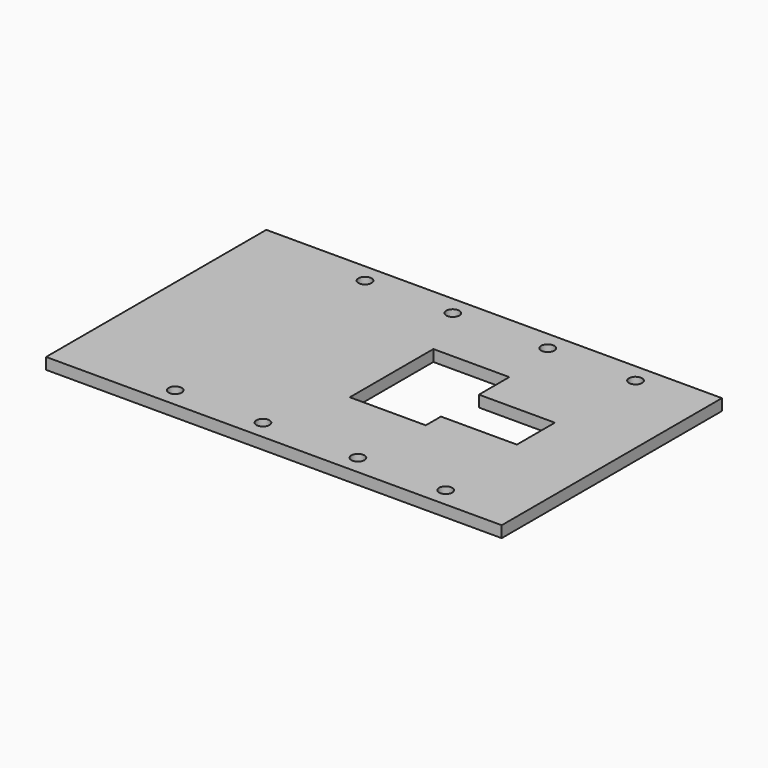
from build123d import *

# Parameters (mm, degrees)
F0_W     = 121.92
F0_H     = 73.66
F0_R     = 1.75
F1_DEPTH = 3.048


with BuildPart() as f1:
    # F0 (on Top) → F1 (new body)
    with BuildSketch(Plane.XY):
        with Locations((60.96, 36.83)):
            Rectangle(F0_W, F0_H)
        with Locations((30.48, 5.08)):
            Circle(F0_R, mode=Mode.SUBTRACT)
        with Locations((53.975, 5.08)):
            Circle(F0_R, mode=Mode.SUBTRACT)
        with Locations((79.375, 5.08)):
            Circle(F0_R, mode=Mode.SUBTRACT)
        with Locations((102.87, 5.08)):
            Circle(F0_R, mode=Mode.SUBTRACT)
        with Locations((30.48, 68.58)):
            Circle(F0_R, mode=Mode.SUBTRACT)
        with Locations((53.975, 68.58)):
            Circle(F0_R, mode=Mode.SUBTRACT)
        Polygon((81.28, 25.4), (60.96, 25.4), (60.96, 53.34), (81.28, 53.34), (81.28, 43.18), (101.6, 43.18), (101.6, 30.48), (81.28, 30.48), align=None, mode=Mode.SUBTRACT)
        with Locations((79.375, 68.58)):
            Circle(F0_R, mode=Mode.SUBTRACT)
        with Locations((102.87, 68.58)):
            Circle(F0_R, mode=Mode.SUBTRACT)
    extrude(amount=F1_DEPTH)


solid = f1.part
